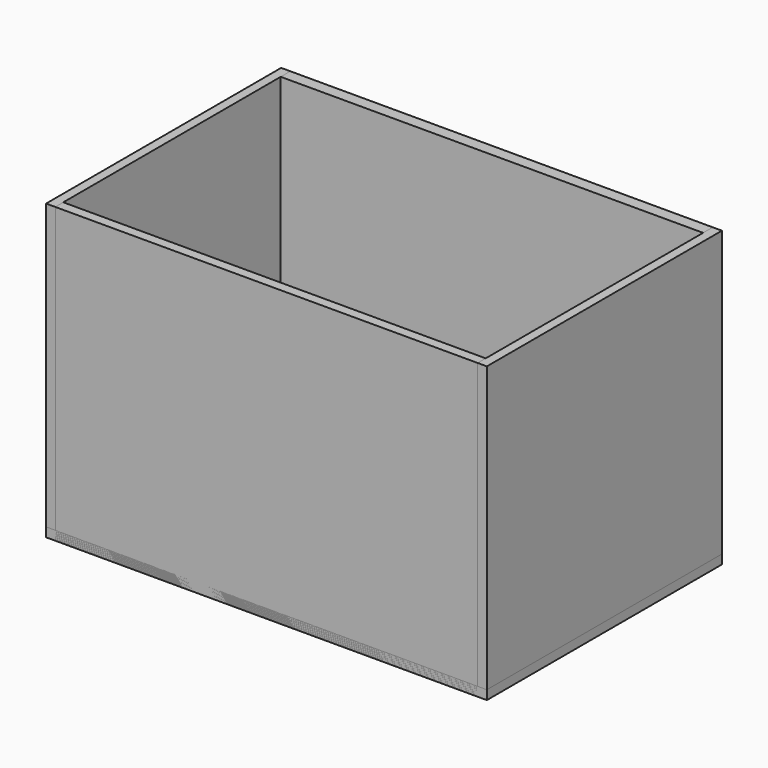
from build123d import *

# Parameters (mm, degrees)
F0_W     = 438.15
F0_H     = 12.483267
F0_H_2   = 10.402717
F2_DEPTH = 304.8
F1_W     = 9.525
F1_H     = 304.8
F3_DEPTH = 304.8
F4_W     = 457.2
F4_H     = 304.8
F5_DEPTH = 9.525


with BuildPart() as f2:
    # F0 (on Top) → F2 (new body)
    with BuildSketch(Plane.XY):
        with Locations((0, 146.158366)):
            Rectangle(F0_W, F0_H)
        with Locations((0, -147.198642)):
            Rectangle(F0_W, F0_H_2)
    extrude(amount=F2_DEPTH)


with BuildPart() as f3:
    # F1 (on Top) → F3 (new body)
    with BuildSketch(Plane.XY):
        with Locations((-223.8375, 0)):
            Rectangle(F1_W, F1_H)
        with Locations((223.8375, 0)):
            Rectangle(F1_W, F1_H)
    extrude(amount=F3_DEPTH)


with BuildPart() as f5:
    # F4 (on Top) → F5 (new body)
    with BuildSketch(Plane.XY):
        Rectangle(F4_W, F4_H)
    extrude(amount=F5_DEPTH)


solid = Compound([f2.part, f3.part, f5.part])
